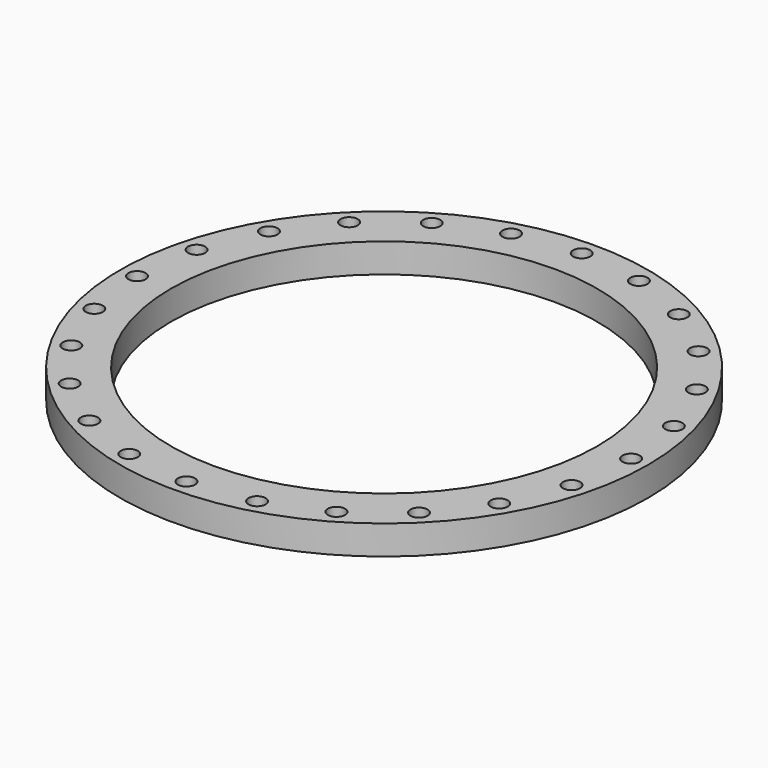
from build123d import *

# Parameters (mm, degrees)
F0_R     = 507.5
F0_R_2   = 16.5
F0_R_3   = 410
F1_DEPTH = 56


with BuildPart() as f1:
    # F0 (on Top) → F1 (new body)
    with BuildSketch(Plane.XY):
        Circle(F0_R)
        with Locations((-335.875721, -335.875721)):
            Circle(F0_R_2, mode=Mode.SUBTRACT)
        with Locations((-237.5, -411.362067)):
            Circle(F0_R_2, mode=Mode.SUBTRACT)
        with Locations((-122.939046, -458.814767)):
            Circle(F0_R_2, mode=Mode.SUBTRACT)
        with Locations((0, -475)):
            Circle(F0_R_2, mode=Mode.SUBTRACT)
        with Locations((-411.362067, -237.5)):
            Circle(F0_R_2, mode=Mode.SUBTRACT)
        with Locations((-458.814767, -122.939046)):
            Circle(F0_R_2, mode=Mode.SUBTRACT)
        with Locations((-475, 0)):
            Circle(F0_R_2, mode=Mode.SUBTRACT)
        Circle(F0_R_3, mode=Mode.SUBTRACT)
        with Locations((122.939046, -458.814767)):
            Circle(F0_R_2, mode=Mode.SUBTRACT)
        with Locations((237.5, -411.362067)):
            Circle(F0_R_2, mode=Mode.SUBTRACT)
        with Locations((335.875721, -335.875721)):
            Circle(F0_R_2, mode=Mode.SUBTRACT)
        with Locations((411.362067, -237.5)):
            Circle(F0_R_2, mode=Mode.SUBTRACT)
        with Locations((458.814767, -122.939046)):
            Circle(F0_R_2, mode=Mode.SUBTRACT)
        with Locations((475, 0)):
            Circle(F0_R_2, mode=Mode.SUBTRACT)
        with Locations((-458.814767, 122.939046)):
            Circle(F0_R_2, mode=Mode.SUBTRACT)
        with Locations((-411.362067, 237.5)):
            Circle(F0_R_2, mode=Mode.SUBTRACT)
        with Locations((-335.875721, 335.875721)):
            Circle(F0_R_2, mode=Mode.SUBTRACT)
        with Locations((-237.5, 411.362067)):
            Circle(F0_R_2, mode=Mode.SUBTRACT)
        with Locations((-122.939046, 458.814767)):
            Circle(F0_R_2, mode=Mode.SUBTRACT)
        with Locations((0, 475)):
            Circle(F0_R_2, mode=Mode.SUBTRACT)
        with Locations((458.814767, 122.939046)):
            Circle(F0_R_2, mode=Mode.SUBTRACT)
        with Locations((411.362067, 237.5)):
            Circle(F0_R_2, mode=Mode.SUBTRACT)
        with Locations((122.939046, 458.814767)):
            Circle(F0_R_2, mode=Mode.SUBTRACT)
        with Locations((237.5, 411.362067)):
            Circle(F0_R_2, mode=Mode.SUBTRACT)
        with Locations((335.875721, 335.875721)):
            Circle(F0_R_2, mode=Mode.SUBTRACT)
    extrude(amount=F1_DEPTH)


solid = f1.part
